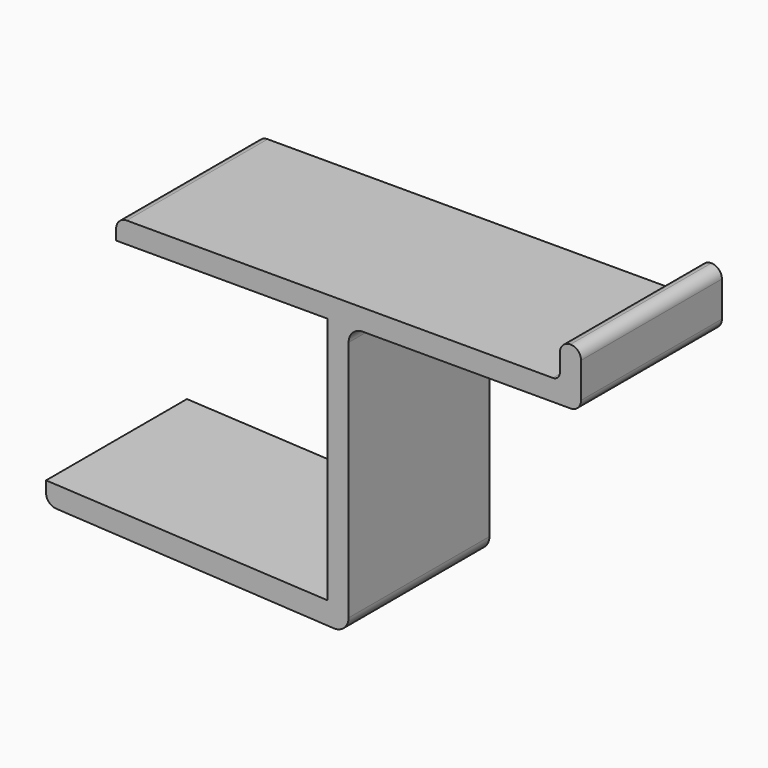
from build123d import *

# Parameters (mm, degrees)
F1_DEPTH = 25


with BuildPart() as f1:
    # F0 (on Front) → F1 (new body)
    with BuildSketch(Plane.XZ):
        with BuildLine():
            Line((29, 33.451155), (-31.5, 33.451155))
            ThreePointArc((-31.5, 33.451155), (-32.56066, 33.011816), (-33, 31.951155))
            Line((-33, 31.951155), (-33, 30.451155))
            Line((-33, 30.451155), (-3, 30.451155))
            Line((-3, 30.451155), (-3, -4.748845))
            Line((-3, -4.748845), (-42.949969, -2.748845))
            Line((-42.949969, -2.748845), (-42.949969, -4.327762))
            ThreePointArc((-42.949969, -4.327762), (-42.538887, -5.359391), (-41.530959, -5.825574))
            Line((-41.530959, -5.825574), (-2.107987, -7.957275))
            ThreePointArc((-2.107987, -7.957275), (-0.624495, -7.412083), (0, -5.960192))
            Line((0, -5.960192), (0, 28.451155))
            ThreePointArc((0, 28.451155), (0.585786, 29.865369), (2, 30.451155))
            Line((2, 30.451155), (31.5, 30.451155))
            ThreePointArc((31.5, 30.451155), (32.56066, 30.890495), (33, 31.951155))
            Line((33, 31.951155), (33, 36.951155))
            ThreePointArc((33, 36.951155), (32.56066, 38.011816), (31.5, 38.451155))
            ThreePointArc((31.5, 38.451155), (30.43934, 38.011816), (30, 36.951155))
            Line((30, 36.951155), (30, 34.451155))
            ThreePointArc((30, 34.451155), (29.707107, 33.744049), (29, 33.451155))
        make_face()
    extrude(amount=F1_DEPTH)


solid = f1.part
